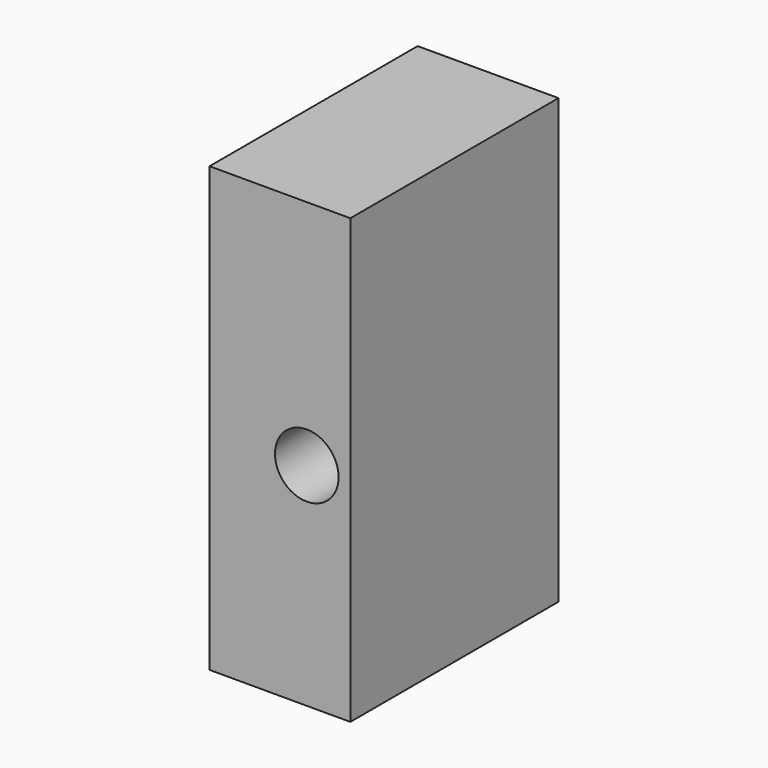
from build123d import *

# Parameters (mm, degrees)
F0_W      = 20.930506
F0_H      = 12.882103
F1_DEPTH  = 38.67383
F1_FACE_W = 20.930506
F1_FACE_H = 38.67383
F2_DEPTH  = 53.03582
F3_R      = 4.727267
F4_DEPTH  = 25.20039


with BuildPart() as f1:
    # F0 (on Front) → F1 (new body)
    with BuildSketch(Plane.XZ):
        with Locations((-29.003717, 19.335555)):
            Rectangle(F0_W, F0_H)
    extrude(amount=F1_DEPTH)

    # F1_face (on face) → F2 (join)
    with BuildSketch(Plane(origin=(-29.003717, -19.336915, 25.776606), x_dir=(1, 0, 0), z_dir=(0, 0, 1))):
        Rectangle(F1_FACE_W, F1_FACE_H)
    extrude(amount=F2_DEPTH)

    # F3 (on face) → F4 (cut)
    with BuildSketch(Plane.XZ.offset(38.67383)):
        with Locations((-25.014196, 44.345655)):
            Circle(F3_R)
    extrude(amount=-F4_DEPTH, mode=Mode.SUBTRACT)


solid = f1.part
